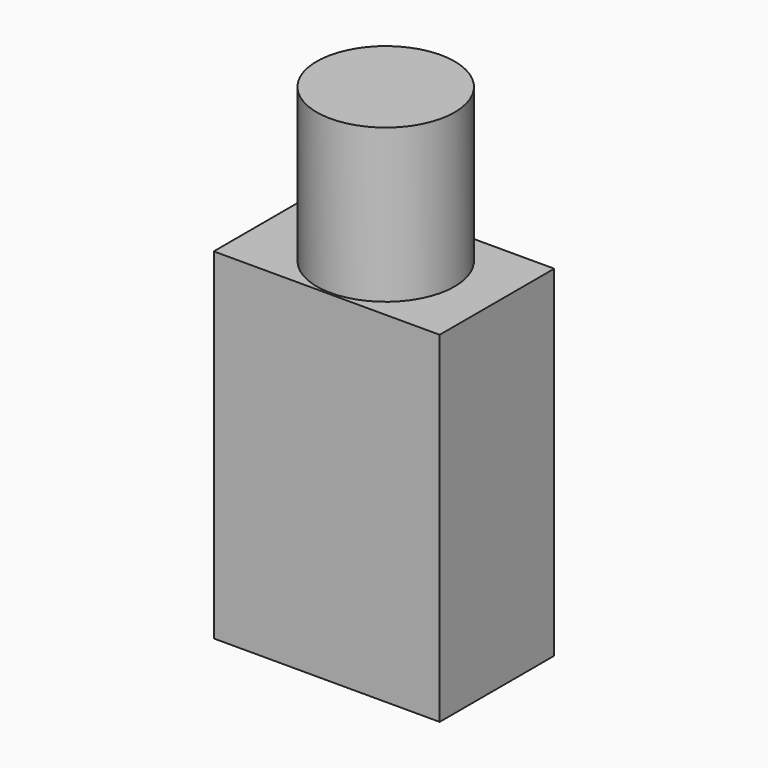
from build123d import *

# Parameters (mm, degrees)
F0_R     = 29.8738984084
F1_DEPTH = 101.6
F3_W     = 84.1787829995
F3_H     = 53.359227255
F4_DEPTH = 127
F5_R     = 25.6938626455
F6_DEPTH = 57.15


with BuildPart() as f1:
    # F0 (on Top) → F1 (new body)
    with BuildSketch(Plane.XY):
        Circle(F0_R)
    extrude(amount=F1_DEPTH)


with BuildPart() as f4:
    # F3 (on Top) → F4 (new body)
    with BuildSketch(Plane.XY):
        with Locations((-0.8001253009, 0.2058306709)):
            Rectangle(F3_W, F3_H)
    extrude(amount=F4_DEPTH)

    # F5 (on face) → F6 (join)
    with BuildSketch(Plane.XY.offset(127)):
        Circle(F5_R)
    extrude(amount=F6_DEPTH)


solid = f4.part
